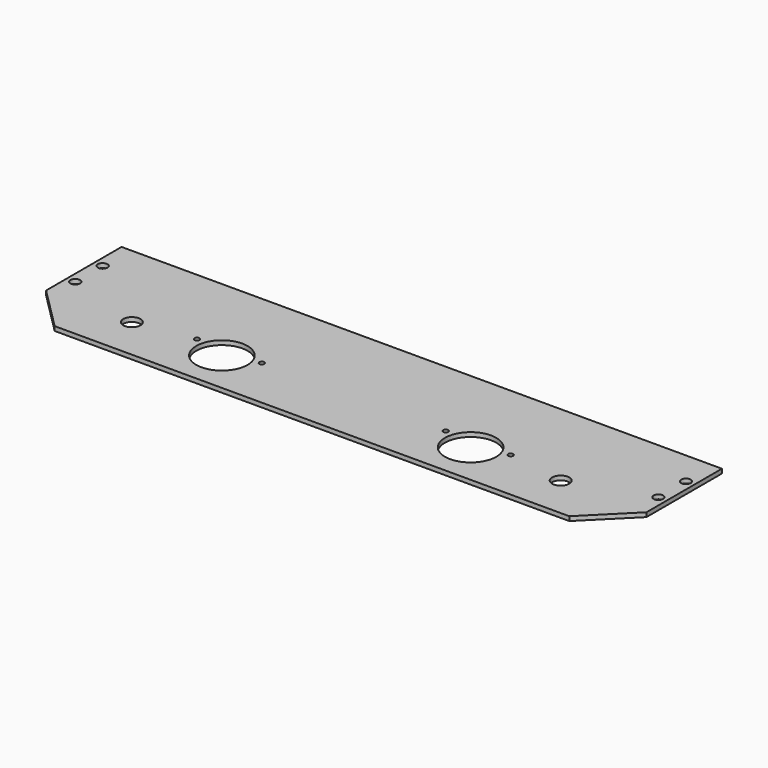
from build123d import *

# Parameters (mm, degrees)
F1_DEPTH  = 3.175
F2_R      = 3.556
F3_DEPTH  = 25.4
F4_DEPTH  = 25.4
F2_R_2    = 6.35
F5_DEPTH  = 25.4
F6_DEPTH  = 25.4
F7_DEPTH  = 25.4
F8_DEPTH  = 25.4
F9_R      = 18.9992
F9_R_2    = 1.8542
F10_DEPTH = 25.4


with BuildPart() as f1:
    # F0 (on Top) → F1 (new body)
    with BuildSketch(Plane.XY):
        Polygon((0, 31.75), (0, 101.6), (-444.5, 101.6), (-444.5, 31.75), (-412.75, 0), (-31.75, 0), align=None)
    extrude(amount=F1_DEPTH)

    # F2 (on face) → F3 (cut)
    with BuildSketch(Plane.XY.offset(3.175)):
        with Locations((-438.15, 50.8)):
            Circle(F2_R)
    extrude(amount=-F3_DEPTH, mode=Mode.SUBTRACT)

    # F2 (on face) → F4 (cut)
    with BuildSketch(Plane.XY.offset(3.175)):
        with Locations((-438.15, 76.2)):
            Circle(F2_R)
    extrude(amount=-F4_DEPTH, mode=Mode.SUBTRACT)

    # F2 (on face) → F5 (cut)
    with BuildSketch(Plane.XY.offset(3.175)):
        with Locations((-381, 31.75)):
            Circle(F2_R_2)
    extrude(amount=-F5_DEPTH, mode=Mode.SUBTRACT)

    # F2 (on face) → F6 (cut)
    with BuildSketch(Plane.XY.offset(3.175)):
        with Locations((-63.5, 31.75)):
            Circle(F2_R_2)
    extrude(amount=-F6_DEPTH, mode=Mode.SUBTRACT)

    # F2 (on face) → F7 (cut)
    with BuildSketch(Plane.XY.offset(3.175)):
        with Locations((-6.35, 76.2)):
            Circle(F2_R)
    extrude(amount=-F7_DEPTH, mode=Mode.SUBTRACT)

    # F2 (on face) → F8 (cut)
    with BuildSketch(Plane.XY.offset(3.175)):
        with Locations((-6.35, 50.8)):
            Circle(F2_R)
    extrude(amount=-F8_DEPTH, mode=Mode.SUBTRACT)

    # F9 (on face) → F10 (cut)
    with BuildSketch(Plane.XY.offset(3.175)):
        with Locations((-314.325, 31.75)):
            Circle(F9_R)
        with Locations((-338.328, 38.7604)):
            Circle(F9_R_2)
        with Locations((-290.322, 38.7604)):
            Circle(F9_R_2)
        with Locations((-130.175, 31.75)):
            Circle(F9_R)
        with Locations((-154.178, 38.7604)):
            Circle(F9_R_2)
        with Locations((-106.172, 38.7604)):
            Circle(F9_R_2)
    extrude(amount=-F10_DEPTH, mode=Mode.SUBTRACT)


solid = f1.part
